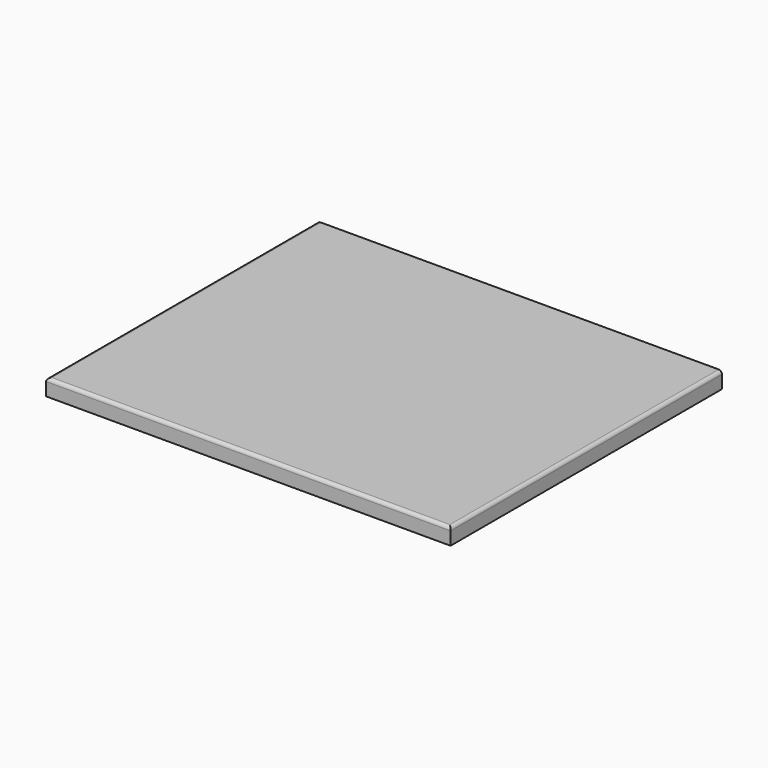
from build123d import *

# Parameters (mm, degrees)
F0_W     = 620
F0_H     = 520
F1_DEPTH = 25
F2_R     = 5


with BuildPart() as f1:
    # F0 (on Top) → F1 (new body)
    with BuildSketch(Plane.XY):
        Rectangle(F0_W, F0_H)
    extrude(amount=F1_DEPTH)

    # F2
    f2_edges = [f1.edges().sort_by_distance(p)[0] for p in [
        (0, -260, 25),
        (-310, 0, 25),
        (310, 0, 25),
    ]]
    fillet(f2_edges, radius=F2_R)


solid = f1.part
